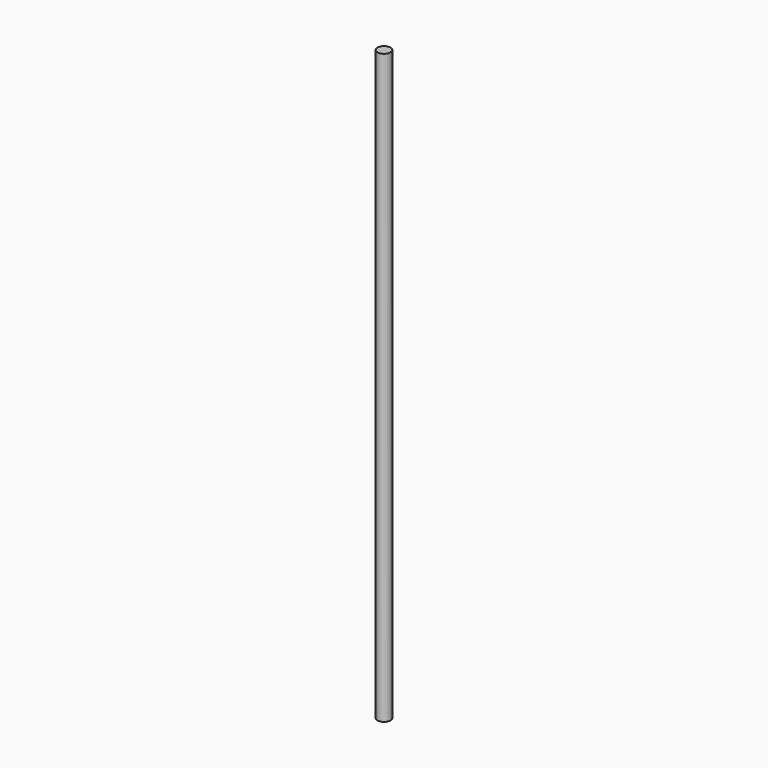
from build123d import *

# Parameters (mm, degrees)
SKETCH_R  = 4
PAD_DEPTH = 360


with BuildPart() as part:
    # Sketch → Pad (new body)
    with BuildSketch(Plane.XY):
        Circle(SKETCH_R)
    extrude(amount=PAD_DEPTH)


solid = part.part
